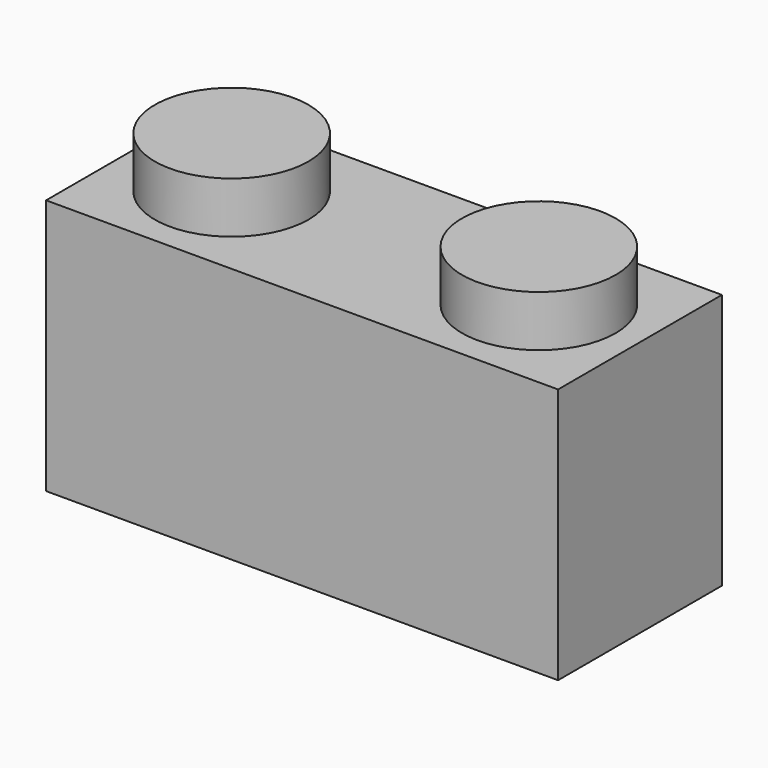
from build123d import *

# Parameters (mm, degrees)
F0_W     = 100
F0_H     = 50
F1_DEPTH = 40
F2_R     = 15
F3_DEPTH = 10
F5_W     = 90
F5_H     = 30
F6_DEPTH = 40


with BuildPart() as f1:
    # F0 (on Front) → F1 (new body)
    with BuildSketch(Plane.XZ):
        Rectangle(F0_W, F0_H)
    extrude(amount=F1_DEPTH)

    # F2 (on face) → F3 (join)
    with BuildSketch(Plane.XY.offset(25)):
        with Locations((-29.75936, -20)):
            Circle(F2_R)
        with Locations((30.24064, -20)):
            Circle(F2_R)
    extrude(amount=F3_DEPTH)

    # F5 (on face) → F6 (cut)
    with BuildSketch(Plane(origin=(0, 0, -25), x_dir=(1, 0, 0), z_dir=(0, 0, -1))):
        with Locations((0, 20.945625)):
            Rectangle(F5_W, F5_H)
    extrude(amount=-F6_DEPTH, mode=Mode.SUBTRACT)


solid = f1.part
